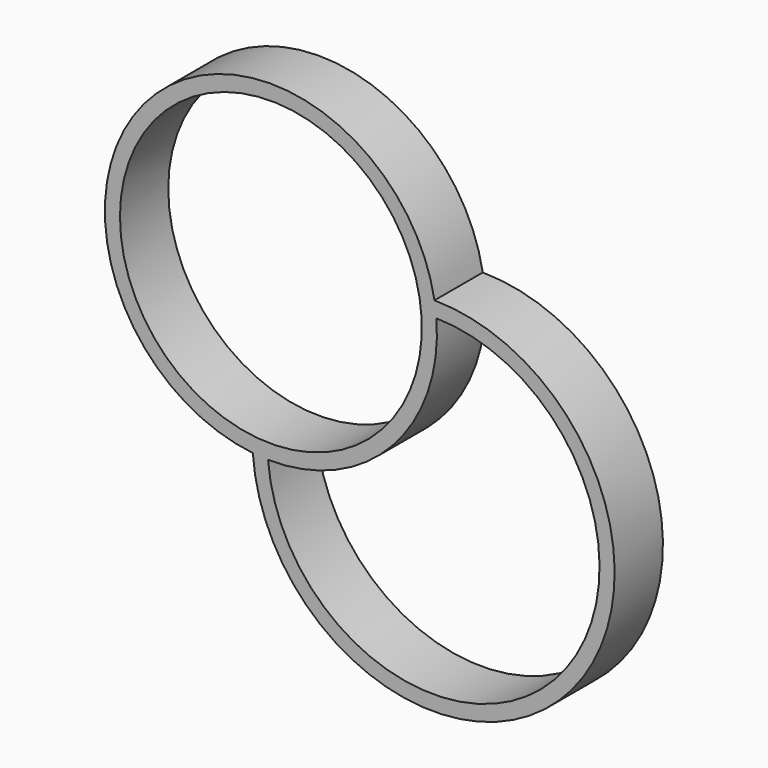
from build123d import *

# Parameters (mm, degrees)
F0_R     = 76.2
F1_DEPTH = 25.4
F3_D     = 139.7
F4_R     = 69.85
F5_DEPTH = 25.4
F7_D     = 127


with BuildPart() as f1:
    # F0 (on Front) → F1 (new body)
    with BuildSketch(Plane.XZ):
        with Locations((-6.108229, 2.87896)):
            Circle(F0_R)
    extrude(amount=F1_DEPTH)

    # F3 (through all)
    with Locations(Plane.XZ):
        with Locations((-6.108229, 2.87896)):
            Hole(F3_D / 2)

    # F4 (on Front) → F5 (join)
    with BuildSketch(Plane.XZ):
        with Locations((-74.529298, 67.110427)):
            Circle(F4_R)
    extrude(amount=F5_DEPTH)

    # F7 (through all)
    with Locations(Plane.XZ.offset(25.4)):
        with Locations((-74.529298, 67.110427)):
            Hole(F7_D / 2)


solid = f1.part
